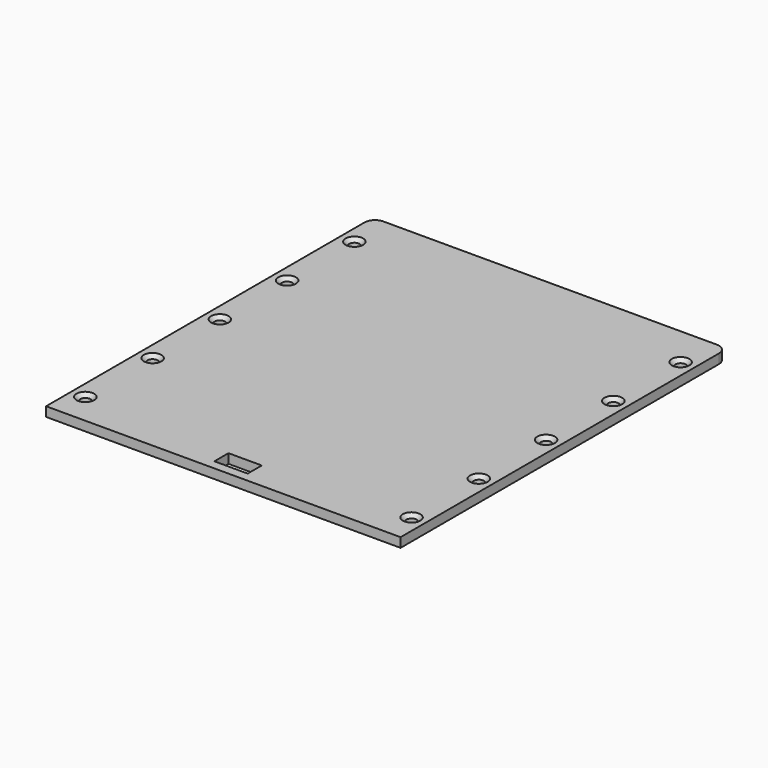
from build123d import *

# Parameters (mm, degrees)
SKETCH068_W         = 112.8
SKETCH068_H         = 130
PAD003_DEPTH        = 3
HOLE015_D           = 3.3
HOLE015_DEPTH       = 3
HOLE015_CSINK_D     = 5.6
HOLE015_CSINK_ANGLE = 90
SKETCH073_W         = 10.6
SKETCH073_H         = 5.6
POCKET016_DEPTH     = 5
FILLET001_R         = 3.35


with BuildPart() as part:
    # Sketch068 → Pad003 (new body)
    with BuildSketch(Plane.XY):
        with Locations((-100.900002, 75)):
            Rectangle(SKETCH068_W, SKETCH068_H)
    extrude(amount=PAD003_DEPTH)

    # Hole015
    with Locations(Plane.XY.offset(3)):
        with Locations((-152.800002, 20.000492), (-152.800002, 46.749416), (-152.800002, 73.500001), (-152.800002, 100.249657), (-152.800002, 126.999153), (-49.000002, 20.001339), (-49.000002, 46.750263), (-49.000002, 73.500848), (-49.000002, 100.250504), (-49.000002, 127)):
            CounterSinkHole(HOLE015_D / 2, HOLE015_CSINK_D / 2, depth=HOLE015_DEPTH, counter_sink_angle=HOLE015_CSINK_ANGLE)

    # Sketch073 (on Face5 of Hole015) → Pocket016 (cut)
    with BuildSketch(Plane.XY.offset(3)):
        with Locations((-100.839996, 15.79)):
            Rectangle(SKETCH073_W, SKETCH073_H)
    extrude(amount=-POCKET016_DEPTH, mode=Mode.SUBTRACT)

    # Fillet001
    fillet001_edges = [part.edges().sort_by_distance(p)[0] for p in [
        (-44.500002, 140, 1.5),
        (-157.300002, 140, 1.5),
    ]]
    fillet(fillet001_edges, radius=FILLET001_R)


with BuildPart() as part_1:
    # Body009 placement: moved
    add(part.part.moved(Location((0, 0, 25.3))))


solid = part_1.part
